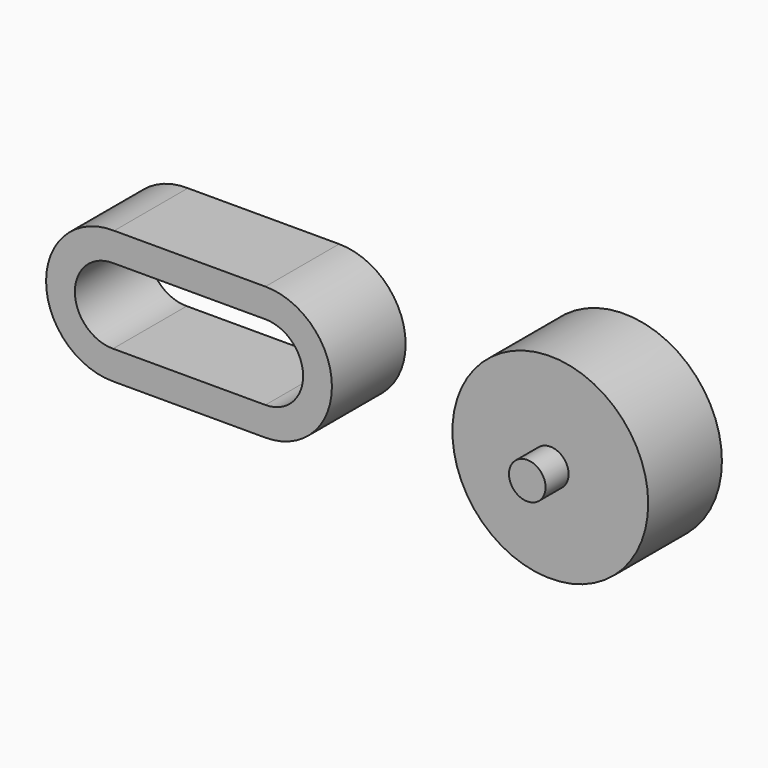
from build123d import *

# Parameters (mm, degrees)
F0_R     = 8.501603
F1_DEPTH = 8
F2_R     = 1.5875
F3_DEPTH = 2.5
F5_DEPTH = 8


with BuildPart() as f1:
    # F0 (on Front) → F1 (new body)
    with BuildSketch(Plane.XZ):
        Circle(F0_R)
    extrude(amount=F1_DEPTH)

    # F2 (on face) → F3 (join)
    with BuildSketch(Plane.XZ.offset(8)):
        Circle(F2_R)
    extrude(amount=F3_DEPTH)


with BuildPart() as f5:
    # F4 (on Front) → F5 (new body)
    with BuildSketch(Plane.XZ):
        with BuildLine():
            ThreePointArc((-37.874664, 5.773413), (-43.784869, 0.042682), (-37.960018, -5.774783))
            Line((-37.960018, -5.774783), (-24.740121, -5.775))
            ThreePointArc((-24.740121, -5.775), (-18.965026, 0.000302), (-24.740724, 5.775))
            Line((-24.740724, 5.775), (-37.874664, 5.773413))
        make_face()
        with BuildLine():
            ThreePointArc((-37.97235, -3.274783), (-41.284868, 0.032199), (-37.907966, 3.273409))
            Line((-37.907966, 3.273409), (-24.740422, 3.275))
            ThreePointArc((-24.740422, 3.275), (-21.465026, 0.000171), (-24.74008, -3.275))
            Line((-24.74008, -3.275), (-37.97235, -3.274783))
        make_face(mode=Mode.SUBTRACT)
    extrude(amount=F5_DEPTH)


solid = Compound([f1.part, f5.part])
